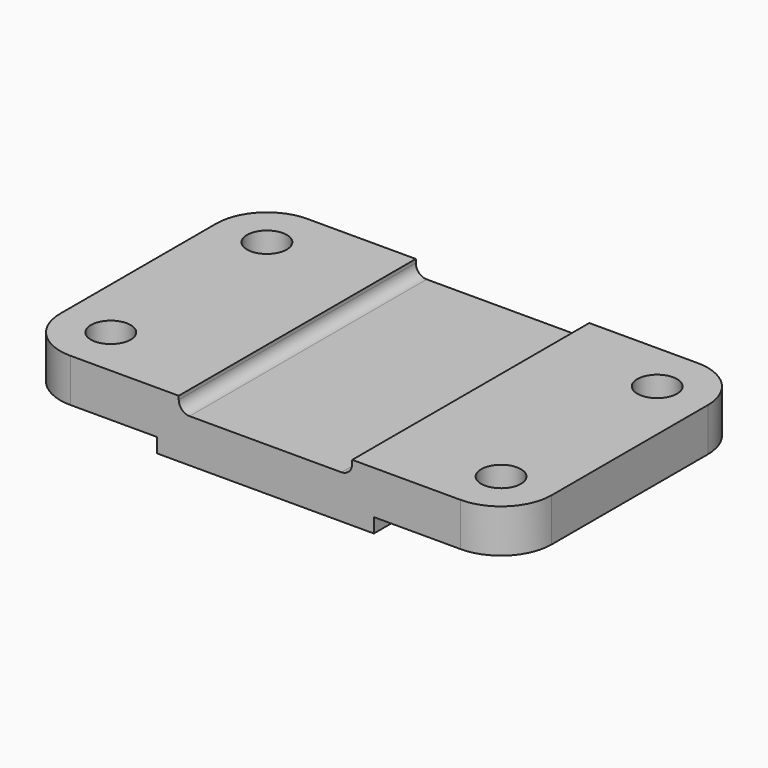
from build123d import *

# Parameters (mm, degrees)
F1_DEPTH = 82
F2_R     = 14
F3_R     = 5.5
F4_DEPTH = 25


with BuildPart() as f1:
    # F0 (on Front) → F1 (new body)
    with BuildSketch(Plane.XZ):
        with BuildLine():
            Line((0, 4), (0, 0))
            Line((0, 0), (60, 0))
            Line((60, 0), (60, 4))
            Line((60, 4), (98, 4))
            Line((98, 4), (98, 16))
            Line((98, 16), (54, 16))
            Line((54, 16), (54, 15))
            ThreePointArc((54, 15), (53.12132, 12.87868), (51, 12))
            Line((51, 12), (9, 12))
            ThreePointArc((9, 12), (6.87868, 12.87868), (6, 15))
            Line((6, 15), (6, 16))
            Line((6, 16), (-38, 16))
            Line((-38, 16), (-38, 4))
            Line((-38, 4), (0, 4))
        make_face()
    extrude(amount=F1_DEPTH)

    # F2
    f2_edges = [f1.edges().sort_by_distance(p)[0] for p in [
        (98, -82, 10),
        (98, 0, 10),
        (-38, 0, 10),
        (-38, -82, 10),
    ]]
    fillet(f2_edges, radius=F2_R)

    # F3 (on face) → F4 (cut)
    with BuildSketch(Plane.XY.offset(16)):
        with Locations((-24, -14)):
            Circle(F3_R)
        with Locations((-24, -68)):
            Circle(F3_R)
        with Locations((84, -68)):
            Circle(F3_R)
        with Locations((84, -14)):
            Circle(F3_R)
    extrude(amount=-F4_DEPTH, mode=Mode.SUBTRACT)


solid = f1.part
